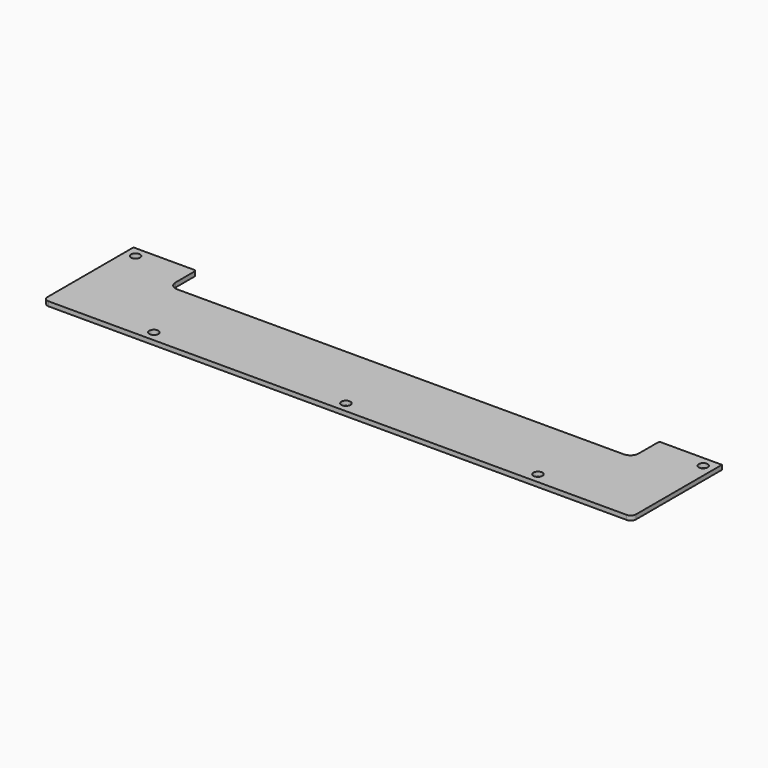
from build123d import *

# Parameters (mm, degrees)
F0_W     = 224.7782652
F0_H     = 43.0059846
F0_R     = 1.7272
F1_DEPTH = 1.70942
F2_R     = 1.98374
F3_W     = 176.9053931614
F3_H     = 12.9915969446
F4_DEPTH = 1.70942
F5_R     = 3.175
F6_R     = 0.762


with BuildPart() as f1:
    # F0 (on Top) → F1 (new body)
    with BuildSketch(Plane.XY):
        with Locations((112.3891326, -21.5029923)):
            Rectangle(F0_W, F0_H)
        with Locations((39.0372346, -39.0372346)):
            Circle(F0_R, mode=Mode.SUBTRACT)
        with Locations((112.3891326, -39.0372346)):
            Circle(F0_R, mode=Mode.SUBTRACT)
        with Locations((185.7410306, -39.0372346)):
            Circle(F0_R, mode=Mode.SUBTRACT)
        with Locations((3.96875, -3.96875)):
            Circle(F0_R, mode=Mode.SUBTRACT)
        with Locations((220.8095152, -3.96875)):
            Circle(F0_R, mode=Mode.SUBTRACT)
    extrude(amount=F1_DEPTH)

    # F2
    f2_edges = [f1.edges().sort_by_distance(p)[0] for p in [
        (0, -43.005985, 0.85471),
        (224.778265, -43.005985, 0.85471),
    ]]
    fillet(f2_edges, radius=F2_R)

    # F3 (on face) → F4 (cut, through all)
    with BuildSketch(Plane.XY.offset(1.70942)):
        with Locations((112.3891326, -6.4957984723)):
            Rectangle(F3_W, F3_H)
    extrude(amount=-F4_DEPTH, mode=Mode.SUBTRACT)

    # F5
    f5_edges = [f1.edges().sort_by_distance(p)[0] for p in [
        (200.841829, -12.991597, 0.85471),
        (23.936436, -12.991597, 0.85471),
    ]]
    fillet(f5_edges, radius=F5_R)

    # F6
    f6_edges = [f1.edges().sort_by_distance(p)[0] for p in [
        (23.936436, 0, 0.85471),
        (200.841829, 0, 0.85471),
    ]]
    fillet(f6_edges, radius=F6_R)


solid = f1.part
